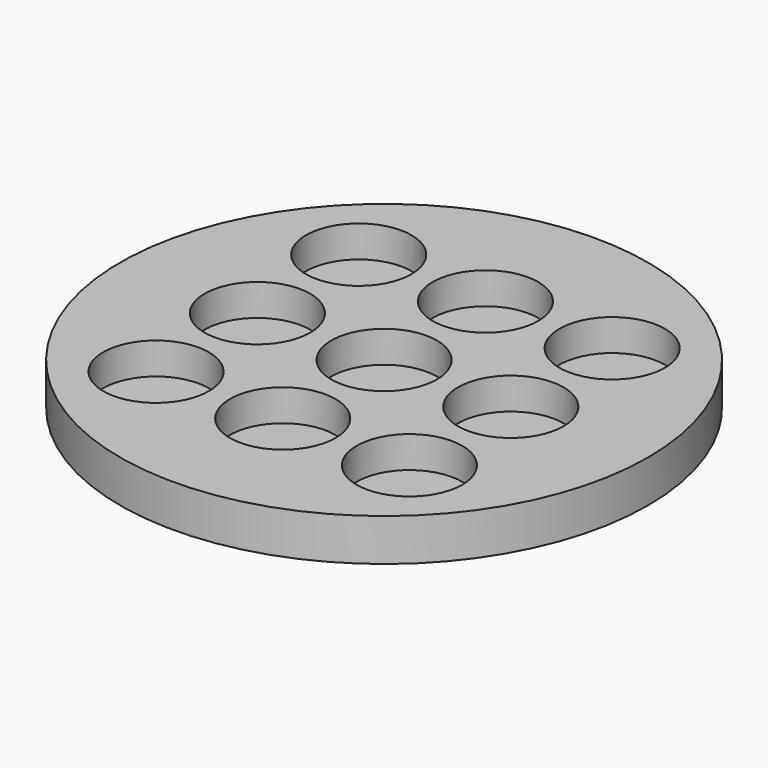
from build123d import *

# Parameters (mm, degrees)
F0_R     = 62.5
F0_R_2   = 12.5
F1_DEPTH = 10
F2_R     = 62.5
F3_DEPTH = 2.5


with BuildPart() as f1:
    # F0 (on Top) → F1 (new body)
    with BuildSketch(Plane.XY):
        Circle(F0_R)
        with Locations((-30, -30)):
            Circle(F0_R_2, mode=Mode.SUBTRACT)
        with Locations((0, -30)):
            Circle(F0_R_2, mode=Mode.SUBTRACT)
        with Locations((30, -30)):
            Circle(F0_R_2, mode=Mode.SUBTRACT)
        with Locations((-30, 0)):
            Circle(F0_R_2, mode=Mode.SUBTRACT)
        with Locations((-30, 30)):
            Circle(F0_R_2, mode=Mode.SUBTRACT)
        Circle(F0_R_2, mode=Mode.SUBTRACT)
        with Locations((30, 0)):
            Circle(F0_R_2, mode=Mode.SUBTRACT)
        with Locations((0, 30)):
            Circle(F0_R_2, mode=Mode.SUBTRACT)
        with Locations((30, 30)):
            Circle(F0_R_2, mode=Mode.SUBTRACT)
    extrude(amount=F1_DEPTH)

    # F2 (on Top) → F3 (join)
    with BuildSketch(Plane.XY):
        Circle(F2_R)
    extrude(amount=F3_DEPTH)


solid = f1.part
